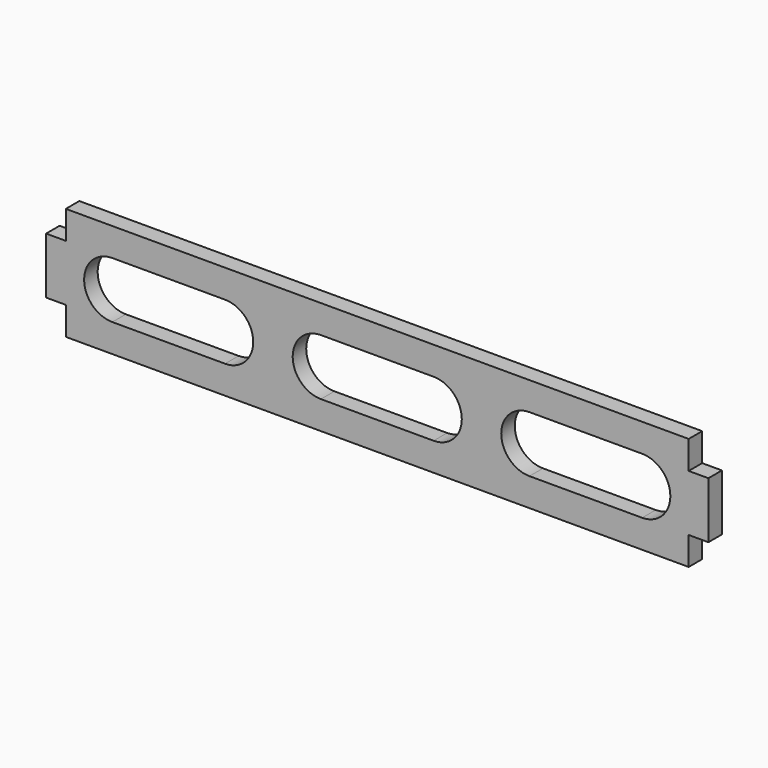
from build123d import *

# Parameters (mm, degrees)
F1_DEPTH = 30


with BuildPart() as f1:
    # F0 (on Front) → F1 (new body)
    with BuildSketch(Plane.XZ):
        Polygon((30, 50), (30, 0), (1135, 0), (1135, 50), (1170, 50), (1170, 150), (1135, 150), (1135, 200), (30, 200), (30, 150), (-5, 150), (-5, 50), align=None)
        with BuildLine():
            Line((312.5, 50), (112.5, 50))
            ThreePointArc((112.5, 50), (62.5, 100), (112.5, 150))
            Line((112.5, 150), (312.5, 150))
            ThreePointArc((312.5, 150), (362.5, 100), (312.5, 50))
        make_face(mode=Mode.SUBTRACT)
        with BuildLine():
            Line((682.5, 50), (482.5, 50))
            ThreePointArc((482.5, 50), (432.5, 100), (482.5, 150))
            Line((482.5, 150), (682.5, 150))
            ThreePointArc((682.5, 150), (732.5, 100), (682.5, 50))
        make_face(mode=Mode.SUBTRACT)
        with BuildLine():
            Line((1052.5, 50), (852.5, 50))
            ThreePointArc((852.5, 50), (802.5, 100), (852.5, 150))
            Line((852.5, 150), (1052.5, 150))
            ThreePointArc((1052.5, 150), (1102.5, 100), (1052.5, 50))
        make_face(mode=Mode.SUBTRACT)
    extrude(amount=F1_DEPTH)


solid = f1.part
